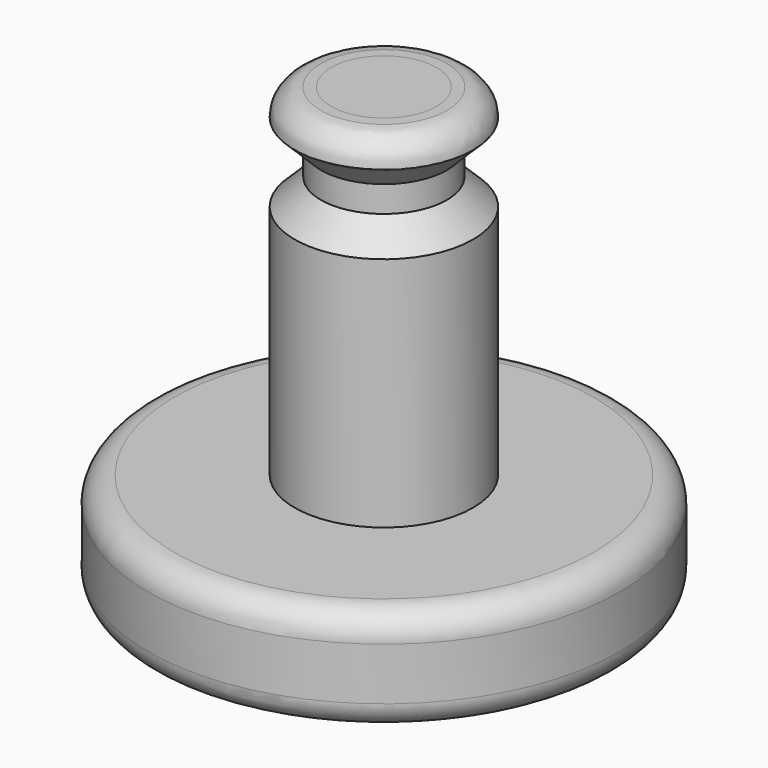
from build123d import *

# Parameters (mm, degrees)
F2_R = 0.5
F3_R = 0.5


with BuildPart() as f1:
    # F0 (on Front) → F1 (revolve)
    with BuildSketch(Plane.XZ):
        Polygon((0, 8.506175), (0, 0), (4.5, 0), (4.5, 2), (1.7, 2), (1.7, 6.5), (1.2, 7), (1.2, 7.5), (1.7, 8), (1.7, 8.5), (1.004275, 8.506175), align=None)
    revolve(axis=Axis((0, 0, 4.253088), (0, 0, -1)))

    # F2
    f2_edges = [f1.edges().sort_by_distance(p)[0] for p in [
        (-1.7, 0, 8.5),
    ]]
    fillet(f2_edges, radius=F2_R)

    # F3
    f3_edges = [f1.edges().sort_by_distance(p)[0] for p in [
        (-4.5, 0, 0),
        (-4.5, 0, 2),
    ]]
    fillet(f3_edges, radius=F3_R)


solid = f1.part
